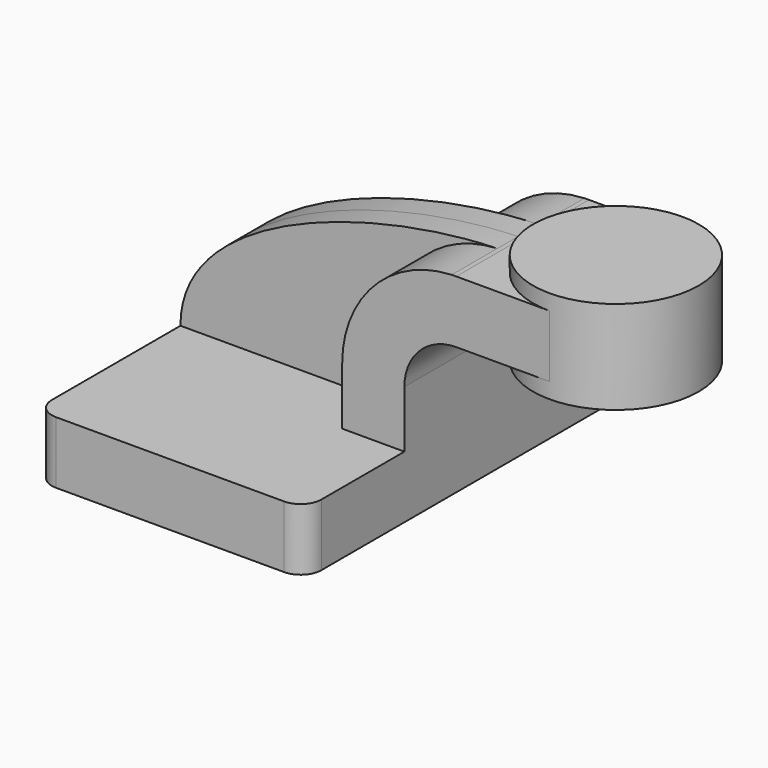
from build123d import *

# Parameters (mm, degrees)
F1_DEPTH = 63.5
F0_W     = 25.4
F0_H     = 19.05
F2_DEPTH = 25.4
F3_DEPTH = 7.9375
F5_R     = 6.35


with BuildPart() as f1:
    # F0 (on Front) → F1 (new body, symmetric)
    with BuildSketch(Plane.XZ):
        Polygon((22.225, 9.525), (-41.275, 9.525), (-41.275, -9.525), (41.275, -9.525), (41.275, 9.525), align=None)
    extrude(amount=F1_DEPTH, both=True)

    # F0 (on Front) → F2 (join, symmetric)
    with BuildSketch(Plane.XZ):
        with BuildLine():
            Line((22.225, 27.0002), (22.225, 9.525))
            Line((22.225, 9.525), (41.275, 9.525))
            Line((41.275, 9.525), (41.275, 27.0002))
            ThreePointArc((41.275, 27.0002), (45.9246798487, 38.2255201513), (57.15, 42.8752))
            Line((57.15, 42.8752), (60.325, 42.8752))
            Line((60.325, 42.8752), (60.325, 61.9252))
            Line((60.325, 61.9252), (57.15, 61.9252))
            add(Edge.make_bspline(
                [(55.765949038, 61.8977647852), (56.2305542195, 61.9094946609), (56.6919540632, 61.9186409968), (57.15, 61.9252)],
                knots=[110.1539897762, 110.1539897762, 110.1539897762, 110.1539897762, 111.5045361635, 111.5045361635, 111.5045361635, 111.5045361635], degree=3))
            ThreePointArc((55.765949038, 61.8977647852), (31.9697140123, 51.2016219123), (22.225, 27.0002))
        make_face()
        with Locations((73.025, 52.4002)):
            Rectangle(F0_W, F0_H)
    extrude(amount=F2_DEPTH, both=True)

    # F0 (on Front) → F3 (join, symmetric)
    with BuildSketch(Plane.XZ):
        with BuildLine():
            add(Edge.make_bspline(
                [(-41.275, 9.525), (-41.3461470735, 42.7974647122), (17.8715716955, 60.9410463575), (55.765949038, 61.8977647852)],
                knots=[0, 0, 0, 0, 110.1539897762, 110.1539897762, 110.1539897762, 110.1539897762], degree=3))
            Line((-41.275, 9.525), (22.225, 9.525))
            Line((22.225, 9.525), (22.225, 27.0002))
            ThreePointArc((22.225, 27.0002), (31.9697140123, 51.2016219123), (55.765949038, 61.8977647852))
        make_face()
    extrude(amount=F3_DEPTH, both=True)

    # F0 (on Front) → F4 (revolve)
    with BuildSketch(Plane.XZ):
        Polygon((85.725, 66.675), (85.725, 61.9252), (85.8205631375, 61.9252), (85.8205631375, 42.8752), (85.725, 42.8752), (85.725, 38.1), (111.125, 38.1), (111.125, 66.675), align=None)
    revolve(axis=Axis((85.725, 0, 52.3875), (0, 0, 1)))

    # F5
    f5_edges = [f1.edges().sort_by_distance(p)[0] for p in [
        (-41.275, -63.5, 0),
        (41.275, -63.5, 0),
        (-41.275, 63.5, 0),
        (41.275, 63.5, 0),
    ]]
    fillet(f5_edges, radius=F5_R)


solid = f1.part
